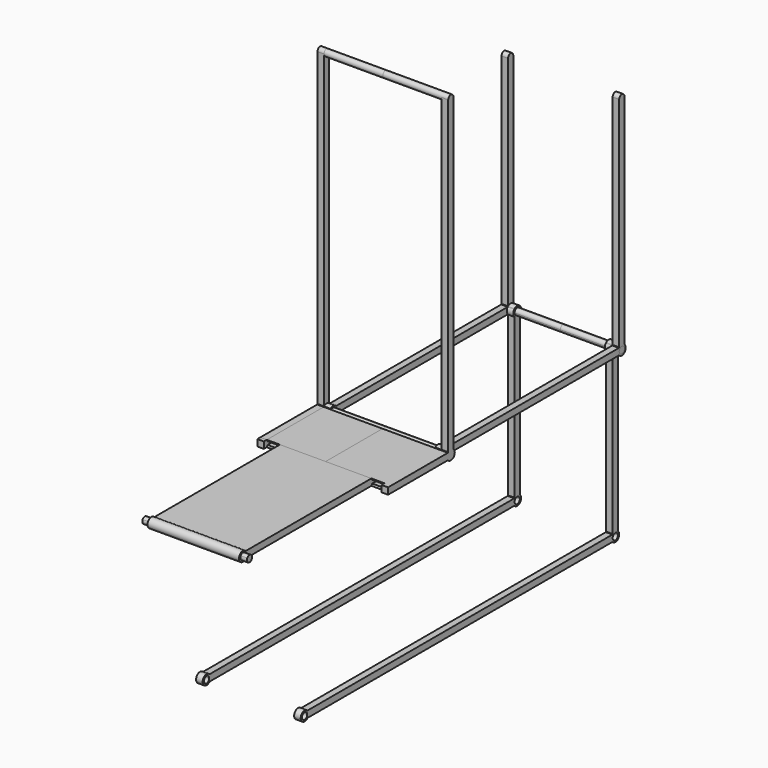
from build123d import *

# Parameters (mm, degrees)
F1_START      = 228.6
F1_DEPTH      = 25.4
F2_START      = -228.6
F2_DEPTH      = 25.4
F3_DEPTH      = 254
F3_DEPTH_BACK = 254
F4_START      = 203.2
F4_DEPTH      = 25.4
F5_START      = -203.2
F5_DEPTH      = 25.4
F6_START      = 177.8
F6_DEPTH      = 25.4
F7_DEPTH      = 228.6
F8_DEPTH      = 177.8
F9_DEPTH      = 203.2
F10_START     = -177.8
F10_DEPTH     = 25.4


with BuildPart() as f1:
    # F0 (on Right) → F1 (new body)
    with BuildSketch(Plane.YZ.offset(F1_START)):
        with BuildLine():
            Line((14.1990316571, -12.7), (0, -12.7))
            Line((0, -12.7), (-14.1990316571, -12.7))
            ThreePointArc((-14.1990316571, -12.7), (0, -19.05), (14.1990316571, -12.7))
        make_face()
        with BuildLine():
            ThreePointArc((-12.7, 1219.2), (0, 1206.5), (12.7, 1219.2))
            Line((12.7, 1219.2), (-12.7, 1219.2))
        make_face()
        with BuildLine():
            ThreePointArc((-12.7, 0), (-8.9802561211, 8.9802561211), (0, 12.7))
            Line((0, 12.7), (-12.7, 12.7))
            Line((-12.7, 12.7), (-12.7, 0))
        make_face()
        with BuildLine():
            ThreePointArc((0, 12.7), (8.9802561211, 8.9802561211), (12.7, 0))
            Line((12.7, 0), (12.7, 12.7))
            Line((12.7, 12.7), (0, 12.7))
        make_face()
        with BuildLine():
            Line((12.7, 12.7), (12.7, 0))
            ThreePointArc((12.7, 0), (8.9802561211, -8.9802561211), (0, -12.7))
            Line((0, -12.7), (14.1990316571, -12.7))
            ThreePointArc((14.1990316571, -12.7), (17.7959834382, -6.7974608102), (19.05, 0))
            ThreePointArc((19.05, 0), (17.7959834382, 6.7974608102), (14.1990316571, 12.7))
            Line((14.1990316571, 12.7), (12.7, 12.7))
        make_face()
        with BuildLine():
            Line((-12.7, 1219.2), (12.7, 1219.2))
            ThreePointArc((12.7, 1219.2), (0, 1231.9), (-12.7, 1219.2))
        make_face()
        with BuildLine():
            Line((-12.7, 12.7), (0, 12.7))
            Line((0, 12.7), (12.7, 12.7))
            Line((12.7, 12.7), (12.7, 14.1990316571))
            ThreePointArc((12.7, 14.1990316571), (0, 19.05), (-12.7, 14.1990316571))
            Line((-12.7, 14.1990316571), (-12.7, 12.7))
        make_face()
        with BuildLine():
            ThreePointArc((-12.7, 14.1990316571), (0, 19.05), (12.7, 14.1990316571))
            Line((12.7, 14.1990316571), (12.7, 1219.2))
            ThreePointArc((12.7, 1219.2), (0, 1206.5), (-12.7, 1219.2))
            Line((-12.7, 1219.2), (-12.7, 14.1990316571))
        make_face()
        with BuildLine():
            Line((-14.1990316571, -12.7), (0, -12.7))
            ThreePointArc((0, -12.7), (-8.9802561211, -8.9802561211), (-12.7, 0))
            Line((-12.7, 0), (-12.7, 12.7))
            Line((-12.7, 12.7), (-14.1990316571, 12.7))
            ThreePointArc((-14.1990316571, 12.7), (-16.390231571, 9.7089035966), (-17.9605122421, 6.35))
            ThreePointArc((-17.9605122421, 6.35), (-19.05, 0), (-17.9605122421, -6.35))
            ThreePointArc((-17.9605122421, -6.35), (-16.390231571, -9.7089035966), (-14.1990316571, -12.7))
        make_face()
        with BuildLine():
            Line((12.7, 14.1990316571), (12.7, 12.7))
            Line((12.7, 12.7), (14.1990316571, 12.7))
            ThreePointArc((14.1990316571, 12.7), (13.4703841816, 13.4703841816), (12.7, 14.1990316571))
        make_face()
        with BuildLine():
            Line((-14.1990316571, 12.7), (-12.7, 12.7))
            Line((-12.7, 12.7), (-12.7, 14.1990316571))
            ThreePointArc((-12.7, 14.1990316571), (-13.4703841816, 13.4703841816), (-14.1990316571, 12.7))
        make_face()
        with BuildLine():
            Line((-290.6009683429, -12.7), (-14.1990316571, -12.7))
            ThreePointArc((-14.1990316571, -12.7), (-16.390231571, -9.7089035966), (-17.9605122421, -6.35))
            Line((-17.9605122421, -6.35), (-286.8394877579, -6.35))
            ThreePointArc((-286.8394877579, -6.35), (-288.409768429, -9.7089035966), (-290.6009683429, -12.7))
        make_face()
        with BuildLine():
            Line((-304.8, -12.7), (-290.6009683429, -12.7))
            ThreePointArc((-290.6009683429, -12.7), (-288.409768429, -9.7089035966), (-286.8394877579, -6.35))
            Line((-286.8394877579, -6.35), (-293.8014773719, -6.35))
            ThreePointArc((-293.8014773719, -6.35), (-298.45, -10.9985226281), (-304.8, -12.7))
        make_face()
        with BuildLine():
            ThreePointArc((-286.8394877579, 6.35), (-288.409768429, 9.7089035966), (-290.6009683429, 12.7))
            Line((-290.6009683429, 12.7), (-304.8, 12.7))
            ThreePointArc((-304.8, 12.7), (-298.45, 10.9985226281), (-293.8014773719, 6.35))
            Line((-293.8014773719, 6.35), (-286.8394877579, 6.35))
        make_face()
        with BuildLine():
            ThreePointArc((-17.9605122421, 6.35), (-16.390231571, 9.7089035966), (-14.1990316571, 12.7))
            Line((-14.1990316571, 12.7), (-290.6009683429, 12.7))
            ThreePointArc((-290.6009683429, 12.7), (-288.409768429, 9.7089035966), (-286.8394877579, 6.35))
            Line((-286.8394877579, 6.35), (-17.9605122421, 6.35))
        make_face()
        with BuildLine():
            ThreePointArc((-293.8014773719, 6.35), (-298.45, 10.9985226281), (-304.8, 12.7))
            Line((-304.8, 12.7), (-304.8, 6.35))
            Line((-304.8, 6.35), (-293.8014773719, 6.35))
        make_face()
        with BuildLine():
            Line((-304.8, -6.35), (-304.8, -12.7))
            ThreePointArc((-304.8, -12.7), (-298.45, -10.9985226281), (-293.8014773719, -6.35))
            Line((-293.8014773719, -6.35), (-304.8, -6.35))
        make_face()
        with BuildLine():
            Line((-304.8, 6.35), (-304.8, -6.35))
            Line((-304.8, -6.35), (-293.8014773719, -6.35))
            ThreePointArc((-293.8014773719, -6.35), (-292.5327420061, -3.2870018728), (-292.1, 0))
            ThreePointArc((-292.1, 0), (-292.5327420061, 3.2870018728), (-293.8014773719, 6.35))
            Line((-293.8014773719, 6.35), (-304.8, 6.35))
        make_face()
        with BuildLine():
            Line((-286.8394877579, -6.35), (-17.9605122421, -6.35))
            ThreePointArc((-17.9605122421, -6.35), (-19.05, 0), (-17.9605122421, 6.35))
            Line((-17.9605122421, 6.35), (-286.8394877579, 6.35))
            ThreePointArc((-286.8394877579, 6.35), (-286.0243474386, 3.2213926947), (-285.75, 0))
            ThreePointArc((-285.75, 0), (-286.0243474386, -3.2213926947), (-286.8394877579, -6.35))
        make_face()
        with BuildLine():
            Line((-293.8014773719, -6.35), (-286.8394877579, -6.35))
            ThreePointArc((-286.8394877579, -6.35), (-286.0243474386, -3.2213926947), (-285.75, 0))
            ThreePointArc((-285.75, 0), (-286.0243474386, 3.2213926947), (-286.8394877579, 6.35))
            Line((-286.8394877579, 6.35), (-293.8014773719, 6.35))
            ThreePointArc((-293.8014773719, 6.35), (-292.5327420061, 3.2870018728), (-292.1, 0))
            ThreePointArc((-292.1, 0), (-292.5327420061, -3.2870018728), (-293.8014773719, -6.35))
        make_face()
    extrude(amount=F1_DEPTH)



with BuildPart() as f2:
    # F0 (on Right) → F2 (new body)
    with BuildSketch(Plane.YZ.offset(F2_START)):
        with BuildLine():
            ThreePointArc((-12.7, 1219.2), (0, 1206.5), (12.7, 1219.2))
            Line((12.7, 1219.2), (-12.7, 1219.2))
        make_face()
        with BuildLine():
            Line((-12.7, 12.7), (0, 12.7))
            Line((0, 12.7), (12.7, 12.7))
            Line((12.7, 12.7), (12.7, 14.1990316571))
            ThreePointArc((12.7, 14.1990316571), (0, 19.05), (-12.7, 14.1990316571))
            Line((-12.7, 14.1990316571), (-12.7, 12.7))
        make_face()
        with BuildLine():
            Line((-14.1990316571, -12.7), (0, -12.7))
            ThreePointArc((0, -12.7), (-8.9802561211, -8.9802561211), (-12.7, 0))
            Line((-12.7, 0), (-12.7, 12.7))
            Line((-12.7, 12.7), (-14.1990316571, 12.7))
            ThreePointArc((-14.1990316571, 12.7), (-16.390231571, 9.7089035966), (-17.9605122421, 6.35))
            ThreePointArc((-17.9605122421, 6.35), (-19.05, 0), (-17.9605122421, -6.35))
            ThreePointArc((-17.9605122421, -6.35), (-16.390231571, -9.7089035966), (-14.1990316571, -12.7))
        make_face()
        with BuildLine():
            ThreePointArc((0, 12.7), (8.9802561211, 8.9802561211), (12.7, 0))
            Line((12.7, 0), (12.7, 12.7))
            Line((12.7, 12.7), (0, 12.7))
        make_face()
        with BuildLine():
            Line((-12.7, 1219.2), (12.7, 1219.2))
            ThreePointArc((12.7, 1219.2), (0, 1231.9), (-12.7, 1219.2))
        make_face()
        with BuildLine():
            Line((12.7, 12.7), (12.7, 0))
            ThreePointArc((12.7, 0), (8.9802561211, -8.9802561211), (0, -12.7))
            Line((0, -12.7), (14.1990316571, -12.7))
            ThreePointArc((14.1990316571, -12.7), (17.7959834382, -6.7974608102), (19.05, 0))
            ThreePointArc((19.05, 0), (17.7959834382, 6.7974608102), (14.1990316571, 12.7))
            Line((14.1990316571, 12.7), (12.7, 12.7))
        make_face()
        with BuildLine():
            ThreePointArc((-12.7, 14.1990316571), (0, 19.05), (12.7, 14.1990316571))
            Line((12.7, 14.1990316571), (12.7, 1219.2))
            ThreePointArc((12.7, 1219.2), (0, 1206.5), (-12.7, 1219.2))
            Line((-12.7, 1219.2), (-12.7, 14.1990316571))
        make_face()
        with BuildLine():
            Line((12.7, 14.1990316571), (12.7, 12.7))
            Line((12.7, 12.7), (14.1990316571, 12.7))
            ThreePointArc((14.1990316571, 12.7), (13.4703841816, 13.4703841816), (12.7, 14.1990316571))
        make_face()
        with BuildLine():
            ThreePointArc((-12.7, 0), (-8.9802561211, 8.9802561211), (0, 12.7))
            Line((0, 12.7), (-12.7, 12.7))
            Line((-12.7, 12.7), (-12.7, 0))
        make_face()
        with BuildLine():
            Line((14.1990316571, -12.7), (0, -12.7))
            Line((0, -12.7), (-14.1990316571, -12.7))
            ThreePointArc((-14.1990316571, -12.7), (0, -19.05), (14.1990316571, -12.7))
        make_face()
        with BuildLine():
            Line((-14.1990316571, 12.7), (-12.7, 12.7))
            Line((-12.7, 12.7), (-12.7, 14.1990316571))
            ThreePointArc((-12.7, 14.1990316571), (-13.4703841816, 13.4703841816), (-14.1990316571, 12.7))
        make_face()
        with BuildLine():
            Line((-290.6009683429, -12.7), (-14.1990316571, -12.7))
            ThreePointArc((-14.1990316571, -12.7), (-16.390231571, -9.7089035966), (-17.9605122421, -6.35))
            Line((-17.9605122421, -6.35), (-286.8394877579, -6.35))
            ThreePointArc((-286.8394877579, -6.35), (-288.409768429, -9.7089035966), (-290.6009683429, -12.7))
        make_face()
        with BuildLine():
            Line((-304.8, -12.7), (-290.6009683429, -12.7))
            ThreePointArc((-290.6009683429, -12.7), (-288.409768429, -9.7089035966), (-286.8394877579, -6.35))
            Line((-286.8394877579, -6.35), (-293.8014773719, -6.35))
            ThreePointArc((-293.8014773719, -6.35), (-298.45, -10.9985226281), (-304.8, -12.7))
        make_face()
        with BuildLine():
            ThreePointArc((-17.9605122421, 6.35), (-16.390231571, 9.7089035966), (-14.1990316571, 12.7))
            Line((-14.1990316571, 12.7), (-290.6009683429, 12.7))
            ThreePointArc((-290.6009683429, 12.7), (-288.409768429, 9.7089035966), (-286.8394877579, 6.35))
            Line((-286.8394877579, 6.35), (-17.9605122421, 6.35))
        make_face()
        with BuildLine():
            ThreePointArc((-286.8394877579, 6.35), (-288.409768429, 9.7089035966), (-290.6009683429, 12.7))
            Line((-290.6009683429, 12.7), (-304.8, 12.7))
            ThreePointArc((-304.8, 12.7), (-298.45, 10.9985226281), (-293.8014773719, 6.35))
            Line((-293.8014773719, 6.35), (-286.8394877579, 6.35))
        make_face()
        with BuildLine():
            ThreePointArc((-293.8014773719, 6.35), (-298.45, 10.9985226281), (-304.8, 12.7))
            Line((-304.8, 12.7), (-304.8, 6.35))
            Line((-304.8, 6.35), (-293.8014773719, 6.35))
        make_face()
        with BuildLine():
            Line((-304.8, 6.35), (-304.8, -6.35))
            Line((-304.8, -6.35), (-293.8014773719, -6.35))
            ThreePointArc((-293.8014773719, -6.35), (-292.5327420061, -3.2870018728), (-292.1, 0))
            ThreePointArc((-292.1, 0), (-292.5327420061, 3.2870018728), (-293.8014773719, 6.35))
            Line((-293.8014773719, 6.35), (-304.8, 6.35))
        make_face()
        with BuildLine():
            Line((-304.8, -6.35), (-304.8, -12.7))
            ThreePointArc((-304.8, -12.7), (-298.45, -10.9985226281), (-293.8014773719, -6.35))
            Line((-293.8014773719, -6.35), (-304.8, -6.35))
        make_face()
        with BuildLine():
            Line((-286.8394877579, -6.35), (-17.9605122421, -6.35))
            ThreePointArc((-17.9605122421, -6.35), (-19.05, 0), (-17.9605122421, 6.35))
            Line((-17.9605122421, 6.35), (-286.8394877579, 6.35))
            ThreePointArc((-286.8394877579, 6.35), (-286.0243474386, 3.2213926947), (-285.75, 0))
            ThreePointArc((-285.75, 0), (-286.0243474386, -3.2213926947), (-286.8394877579, -6.35))
        make_face()
        with BuildLine():
            Line((-293.8014773719, -6.35), (-286.8394877579, -6.35))
            ThreePointArc((-286.8394877579, -6.35), (-286.0243474386, -3.2213926947), (-285.75, 0))
            ThreePointArc((-285.75, 0), (-286.0243474386, 3.2213926947), (-286.8394877579, 6.35))
            Line((-286.8394877579, 6.35), (-293.8014773719, 6.35))
            ThreePointArc((-293.8014773719, 6.35), (-292.5327420061, 3.2870018728), (-292.1, 0))
            ThreePointArc((-292.1, 0), (-292.5327420061, -3.2870018728), (-293.8014773719, -6.35))
        make_face()
    extrude(amount=-F2_DEPTH)


with BuildPart() as f1_1:
    add(f1.part)

    add(f2.part)  # F3 merges F2
    # F0 (on Right) → F3 (join, two sides)
    with BuildSketch(Plane.YZ) as f3_sk:
        with BuildLine():
            ThreePointArc((0, -12.7), (8.9802561211, -8.9802561211), (12.7, 0))
            ThreePointArc((12.7, 0), (8.9802561211, 8.9802561211), (0, 12.7))
            ThreePointArc((0, 12.7), (-8.9802561211, 8.9802561211), (-12.7, 0))
            ThreePointArc((-12.7, 0), (-8.9802561211, -8.9802561211), (0, -12.7))
        make_face()
        with BuildLine():
            ThreePointArc((-12.7, 1219.2), (0, 1206.5), (12.7, 1219.2))
            Line((12.7, 1219.2), (-12.7, 1219.2))
        make_face()
        with BuildLine():
            Line((-12.7, 1219.2), (12.7, 1219.2))
            ThreePointArc((12.7, 1219.2), (0, 1231.9), (-12.7, 1219.2))
        make_face()
        with BuildLine():
            ThreePointArc((-17.9605122421, 6.35), (-16.390231571, 9.7089035966), (-14.1990316571, 12.7))
            Line((-14.1990316571, 12.7), (-290.6009683429, 12.7))
            ThreePointArc((-290.6009683429, 12.7), (-288.409768429, 9.7089035966), (-286.8394877579, 6.35))
            Line((-286.8394877579, 6.35), (-17.9605122421, 6.35))
        make_face()
        with BuildLine():
            Line((-290.6009683429, -12.7), (-14.1990316571, -12.7))
            ThreePointArc((-14.1990316571, -12.7), (-16.390231571, -9.7089035966), (-17.9605122421, -6.35))
            Line((-17.9605122421, -6.35), (-286.8394877579, -6.35))
            ThreePointArc((-286.8394877579, -6.35), (-288.409768429, -9.7089035966), (-290.6009683429, -12.7))
        make_face()
    extrude(amount=F3_DEPTH)
    extrude(f3_sk.sketch, amount=-F3_DEPTH_BACK)


with BuildPart() as f4:
    # F0 (on Right) → F4 (new body)
    with BuildSketch(Plane.YZ.offset(F4_START)):
        with BuildLine():
            ThreePointArc((0, 12.7), (8.9802561211, 8.9802561211), (12.7, 0))
            Line((12.7, 0), (12.7, 12.7))
            Line((12.7, 12.7), (0, 12.7))
        make_face()
        with BuildLine():
            Line((12.7, 14.1990316571), (12.7, 12.7))
            Line((12.7, 12.7), (14.1990316571, 12.7))
            ThreePointArc((14.1990316571, 12.7), (13.4703841816, 13.4703841816), (12.7, 14.1990316571))
        make_face()
        with BuildLine():
            Line((12.7, 12.7), (12.7, 0))
            ThreePointArc((12.7, 0), (8.9802561211, -8.9802561211), (0, -12.7))
            Line((0, -12.7), (14.1990316571, -12.7))
            ThreePointArc((14.1990316571, -12.7), (17.7959834382, -6.7974608102), (19.05, 0))
            ThreePointArc((19.05, 0), (17.7959834382, 6.7974608102), (14.1990316571, 12.7))
            Line((14.1990316571, 12.7), (12.7, 12.7))
        make_face()
        with BuildLine():
            ThreePointArc((19.05, 0), (17.7959834382, -6.7974608102), (14.1990316571, -12.7))
            Line((14.1990316571, -12.7), (847.9023683429, -12.7))
            ThreePointArc((847.9023683429, -12.7), (843.0514, 0), (847.9023683429, 12.7))
            Line((847.9023683429, 12.7), (14.1990316571, 12.7))
            ThreePointArc((14.1990316571, 12.7), (17.7959834382, 6.7974608102), (19.05, 0))
        make_face()
        with BuildLine():
            Line((862.1014, 12.7), (849.4014, 12.7))
            Line((849.4014, 12.7), (849.4014, 0))
            ThreePointArc((849.4014, 0), (853.1211438789, 8.9802561211), (862.1014, 12.7))
        make_face()
        with BuildLine():
            Line((849.4014, 0), (849.4014, -12.7))
            Line((849.4014, -12.7), (862.1014, -12.7))
            ThreePointArc((862.1014, -12.7), (853.1211438789, -8.9802561211), (849.4014, 0))
        make_face()
        with BuildLine():
            Line((14.1990316571, -12.7), (0, -12.7))
            Line((0, -12.7), (-14.1990316571, -12.7))
            ThreePointArc((-14.1990316571, -12.7), (0, -19.05), (14.1990316571, -12.7))
        make_face()
        with BuildLine():
            Line((-12.7, 12.7), (0, 12.7))
            Line((0, 12.7), (12.7, 12.7))
            Line((12.7, 12.7), (12.7, 14.1990316571))
            ThreePointArc((12.7, 14.1990316571), (0, 19.05), (-12.7, 14.1990316571))
            Line((-12.7, 14.1990316571), (-12.7, 12.7))
        make_face()
        with BuildLine():
            ThreePointArc((847.9023683429, 12.7), (843.0514, 0), (847.9023683429, -12.7))
            Line((847.9023683429, -12.7), (849.4014, -12.7))
            Line((849.4014, -12.7), (849.4014, 0))
            Line((849.4014, 0), (849.4014, 12.7))
            Line((849.4014, 12.7), (847.9023683429, 12.7))
        make_face()
        with BuildLine():
            Line((849.4014, 14.1990316571), (849.4014, 12.7))
            Line((849.4014, 12.7), (862.1014, 12.7))
            ThreePointArc((862.1014, 12.7), (871.0816561211, 8.9802561211), (874.8014, 0))
            Line((874.8014, 0), (874.8014, 14.1990316571))
            ThreePointArc((874.8014, 14.1990316571), (862.1014, 19.05), (849.4014, 14.1990316571))
        make_face()
        with BuildLine():
            Line((874.8014, 0), (874.8014, -14.1990316571))
            ThreePointArc((874.8014, -14.1990316571), (879.4915912008, -7.7771299333), (881.1514, 0))
            ThreePointArc((881.1514, 0), (879.4915912008, 7.7771299333), (874.8014, 14.1990316571))
            Line((874.8014, 14.1990316571), (874.8014, 0))
        make_face()
        with BuildLine():
            Line((862.1014, -12.7), (849.4014, -12.7))
            Line((849.4014, -12.7), (849.4014, -14.1990316571))
            ThreePointArc((849.4014, -14.1990316571), (862.1014, -19.05), (874.8014, -14.1990316571))
            Line((874.8014, -14.1990316571), (874.8014, 0))
            ThreePointArc((874.8014, 0), (871.0816561211, -8.9802561211), (862.1014, -12.7))
        make_face()
        with BuildLine():
            ThreePointArc((849.4014, 14.1990316571), (848.6310158184, 13.4703841816), (847.9023683429, 12.7))
            Line((847.9023683429, 12.7), (849.4014, 12.7))
            Line((849.4014, 12.7), (849.4014, 14.1990316571))
        make_face()
        with BuildLine():
            Line((849.4014, -12.7), (847.9023683429, -12.7))
            ThreePointArc((847.9023683429, -12.7), (848.6310158184, -13.4703841816), (849.4014, -14.1990316571))
            Line((849.4014, -14.1990316571), (849.4014, -12.7))
        make_face()
        with BuildLine():
            Line((849.4014, 862.1014), (849.4014, 14.1990316571))
            ThreePointArc((849.4014, 14.1990316571), (862.1014, 19.05), (874.8014, 14.1990316571))
            Line((874.8014, 14.1990316571), (874.8014, 862.1014))
            ThreePointArc((874.8014, 862.1014), (862.1014, 849.4014), (849.4014, 862.1014))
        make_face()
        with BuildLine():
            Line((874.8014, 862.1014), (849.4014, 862.1014))
            ThreePointArc((849.4014, 862.1014), (862.1014, 849.4014), (874.8014, 862.1014))
        make_face()
        with BuildLine():
            ThreePointArc((874.8014, 862.1014), (862.1014, 874.8014), (849.4014, 862.1014))
            Line((849.4014, 862.1014), (874.8014, 862.1014))
        make_face()
    extrude(amount=F4_DEPTH)


with BuildPart() as f5:
    # F0 (on Right) → F5 (new body)
    with BuildSketch(Plane.YZ.offset(F5_START)):
        with BuildLine():
            ThreePointArc((847.9023683429, 12.7), (843.0514, 0), (847.9023683429, -12.7))
            Line((847.9023683429, -12.7), (849.4014, -12.7))
            Line((849.4014, -12.7), (849.4014, 0))
            Line((849.4014, 0), (849.4014, 12.7))
            Line((849.4014, 12.7), (847.9023683429, 12.7))
        make_face()
        with BuildLine():
            ThreePointArc((849.4014, 14.1990316571), (848.6310158184, 13.4703841816), (847.9023683429, 12.7))
            Line((847.9023683429, 12.7), (849.4014, 12.7))
            Line((849.4014, 12.7), (849.4014, 14.1990316571))
        make_face()
        with BuildLine():
            Line((849.4014, -12.7), (847.9023683429, -12.7))
            ThreePointArc((847.9023683429, -12.7), (848.6310158184, -13.4703841816), (849.4014, -14.1990316571))
            Line((849.4014, -14.1990316571), (849.4014, -12.7))
        make_face()
        with BuildLine():
            Line((12.7, 14.1990316571), (12.7, 12.7))
            Line((12.7, 12.7), (14.1990316571, 12.7))
            ThreePointArc((14.1990316571, 12.7), (13.4703841816, 13.4703841816), (12.7, 14.1990316571))
        make_face()
        with BuildLine():
            Line((874.8014, 0), (874.8014, -14.1990316571))
            ThreePointArc((874.8014, -14.1990316571), (879.4915912008, -7.7771299333), (881.1514, 0))
            ThreePointArc((881.1514, 0), (879.4915912008, 7.7771299333), (874.8014, 14.1990316571))
            Line((874.8014, 14.1990316571), (874.8014, 0))
        make_face()
        with BuildLine():
            Line((-12.7, 12.7), (0, 12.7))
            Line((0, 12.7), (12.7, 12.7))
            Line((12.7, 12.7), (12.7, 14.1990316571))
            ThreePointArc((12.7, 14.1990316571), (0, 19.05), (-12.7, 14.1990316571))
            Line((-12.7, 14.1990316571), (-12.7, 12.7))
        make_face()
        with BuildLine():
            Line((862.1014, 12.7), (849.4014, 12.7))
            Line((849.4014, 12.7), (849.4014, 0))
            ThreePointArc((849.4014, 0), (853.1211438789, 8.9802561211), (862.1014, 12.7))
        make_face()
        with BuildLine():
            Line((12.7, 12.7), (12.7, 0))
            ThreePointArc((12.7, 0), (8.9802561211, -8.9802561211), (0, -12.7))
            Line((0, -12.7), (14.1990316571, -12.7))
            ThreePointArc((14.1990316571, -12.7), (17.7959834382, -6.7974608102), (19.05, 0))
            ThreePointArc((19.05, 0), (17.7959834382, 6.7974608102), (14.1990316571, 12.7))
            Line((14.1990316571, 12.7), (12.7, 12.7))
        make_face()
        with BuildLine():
            Line((849.4014, 14.1990316571), (849.4014, 12.7))
            Line((849.4014, 12.7), (862.1014, 12.7))
            ThreePointArc((862.1014, 12.7), (871.0816561211, 8.9802561211), (874.8014, 0))
            Line((874.8014, 0), (874.8014, 14.1990316571))
            ThreePointArc((874.8014, 14.1990316571), (862.1014, 19.05), (849.4014, 14.1990316571))
        make_face()
        with BuildLine():
            Line((862.1014, -12.7), (849.4014, -12.7))
            Line((849.4014, -12.7), (849.4014, -14.1990316571))
            ThreePointArc((849.4014, -14.1990316571), (862.1014, -19.05), (874.8014, -14.1990316571))
            Line((874.8014, -14.1990316571), (874.8014, 0))
            ThreePointArc((874.8014, 0), (871.0816561211, -8.9802561211), (862.1014, -12.7))
        make_face()
        with BuildLine():
            ThreePointArc((0, 12.7), (8.9802561211, 8.9802561211), (12.7, 0))
            Line((12.7, 0), (12.7, 12.7))
            Line((12.7, 12.7), (0, 12.7))
        make_face()
        with BuildLine():
            Line((849.4014, 0), (849.4014, -12.7))
            Line((849.4014, -12.7), (862.1014, -12.7))
            ThreePointArc((862.1014, -12.7), (853.1211438789, -8.9802561211), (849.4014, 0))
        make_face()
        with BuildLine():
            ThreePointArc((19.05, 0), (17.7959834382, -6.7974608102), (14.1990316571, -12.7))
            Line((14.1990316571, -12.7), (847.9023683429, -12.7))
            ThreePointArc((847.9023683429, -12.7), (843.0514, 0), (847.9023683429, 12.7))
            Line((847.9023683429, 12.7), (14.1990316571, 12.7))
            ThreePointArc((14.1990316571, 12.7), (17.7959834382, 6.7974608102), (19.05, 0))
        make_face()
        with BuildLine():
            Line((14.1990316571, -12.7), (0, -12.7))
            Line((0, -12.7), (-14.1990316571, -12.7))
            ThreePointArc((-14.1990316571, -12.7), (0, -19.05), (14.1990316571, -12.7))
        make_face()
        with BuildLine():
            Line((849.4014, 862.1014), (849.4014, 14.1990316571))
            ThreePointArc((849.4014, 14.1990316571), (862.1014, 19.05), (874.8014, 14.1990316571))
            Line((874.8014, 14.1990316571), (874.8014, 862.1014))
            ThreePointArc((874.8014, 862.1014), (862.1014, 849.4014), (849.4014, 862.1014))
        make_face()
        with BuildLine():
            Line((874.8014, 862.1014), (849.4014, 862.1014))
            ThreePointArc((849.4014, 862.1014), (862.1014, 849.4014), (874.8014, 862.1014))
        make_face()
        with BuildLine():
            ThreePointArc((874.8014, 862.1014), (862.1014, 874.8014), (849.4014, 862.1014))
            Line((849.4014, 862.1014), (874.8014, 862.1014))
        make_face()
    extrude(amount=-F5_DEPTH)


with BuildPart() as f6:
    # F0 (on Right) → F6 (new body)
    with BuildSketch(Plane.YZ.offset(F6_START)):
        with BuildLine():
            Line((862.1014, 12.7), (849.4014, 12.7))
            Line((849.4014, 12.7), (849.4014, 0))
            ThreePointArc((849.4014, 0), (853.1211438789, 8.9802561211), (862.1014, 12.7))
        make_face()
        with BuildLine():
            Line((862.1014, -633.8824), (849.4014, -633.8824))
            Line((849.4014, -633.8824), (849.4014, -646.5824))
            ThreePointArc((849.4014, -646.5824), (853.1211438789, -637.6021438789), (862.1014, -633.8824))
        make_face()
        with BuildLine():
            ThreePointArc((874.8014, -14.1990316571), (862.1014, -19.05), (849.4014, -14.1990316571))
            Line((849.4014, -14.1990316571), (849.4014, -632.3833683429))
            ThreePointArc((849.4014, -632.3833683429), (862.1014, -627.5324), (874.8014, -632.3833683429))
            Line((874.8014, -632.3833683429), (874.8014, -14.1990316571))
        make_face()
        with BuildLine():
            Line((874.8014, 0), (874.8014, -14.1990316571))
            ThreePointArc((874.8014, -14.1990316571), (879.4915912008, -7.7771299333), (881.1514, 0))
            ThreePointArc((881.1514, 0), (879.4915912008, 7.7771299333), (874.8014, 14.1990316571))
            Line((874.8014, 14.1990316571), (874.8014, 0))
        make_face()
        with BuildLine():
            Line((849.4014, -12.7), (847.9023683429, -12.7))
            ThreePointArc((847.9023683429, -12.7), (848.6310158184, -13.4703841816), (849.4014, -14.1990316571))
            Line((849.4014, -14.1990316571), (849.4014, -12.7))
        make_face()
        with BuildLine():
            Line((849.4014, -646.5824), (849.4014, -633.8824))
            Line((849.4014, -633.8824), (847.9023683429, -633.8824))
            ThreePointArc((847.9023683429, -633.8824), (843.0514, -646.5824), (847.9023683429, -659.2824))
            Line((847.9023683429, -659.2824), (862.1014, -659.2824))
            ThreePointArc((862.1014, -659.2824), (853.1211438789, -655.5626561211), (849.4014, -646.5824))
        make_face()
        with BuildLine():
            Line((862.1014, -12.7), (849.4014, -12.7))
            Line((849.4014, -12.7), (849.4014, -14.1990316571))
            ThreePointArc((849.4014, -14.1990316571), (862.1014, -19.05), (874.8014, -14.1990316571))
            Line((874.8014, -14.1990316571), (874.8014, 0))
            ThreePointArc((874.8014, 0), (871.0816561211, -8.9802561211), (862.1014, -12.7))
        make_face()
        with BuildLine():
            ThreePointArc((849.4014, 14.1990316571), (848.6310158184, 13.4703841816), (847.9023683429, 12.7))
            Line((847.9023683429, 12.7), (849.4014, 12.7))
            Line((849.4014, 12.7), (849.4014, 14.1990316571))
        make_face()
        with BuildLine():
            ThreePointArc((874.8014, -632.3833683429), (862.1014, -627.5324), (849.4014, -632.3833683429))
            Line((849.4014, -632.3833683429), (849.4014, -633.8824))
            Line((849.4014, -633.8824), (862.1014, -633.8824))
            ThreePointArc((862.1014, -633.8824), (871.0816561211, -637.6021438789), (874.8014, -646.5824))
            Line((874.8014, -646.5824), (874.8014, -632.3833683429))
        make_face()
        with BuildLine():
            ThreePointArc((847.9023683429, 12.7), (843.0514, 0), (847.9023683429, -12.7))
            Line((847.9023683429, -12.7), (849.4014, -12.7))
            Line((849.4014, -12.7), (849.4014, 0))
            Line((849.4014, 0), (849.4014, 12.7))
            Line((849.4014, 12.7), (847.9023683429, 12.7))
        make_face()
        with BuildLine():
            Line((849.4014, 0), (849.4014, -12.7))
            Line((849.4014, -12.7), (862.1014, -12.7))
            ThreePointArc((862.1014, -12.7), (853.1211438789, -8.9802561211), (849.4014, 0))
        make_face()
        with BuildLine():
            Line((849.4014, 14.1990316571), (849.4014, 12.7))
            Line((849.4014, 12.7), (862.1014, 12.7))
            ThreePointArc((862.1014, 12.7), (871.0816561211, 8.9802561211), (874.8014, 0))
            Line((874.8014, 0), (874.8014, 14.1990316571))
            ThreePointArc((874.8014, 14.1990316571), (862.1014, 19.05), (849.4014, 14.1990316571))
        make_face()
        with BuildLine():
            Line((849.4014, -633.8824), (849.4014, -632.3833683429))
            ThreePointArc((849.4014, -632.3833683429), (848.6310158184, -633.1120158184), (847.9023683429, -633.8824))
            Line((847.9023683429, -633.8824), (849.4014, -633.8824))
        make_face()
        with BuildLine():
            ThreePointArc((881.1514, -646.5824), (879.4915912008, -638.8052700667), (874.8014, -632.3833683429))
            Line((874.8014, -632.3833683429), (874.8014, -646.5824))
            ThreePointArc((874.8014, -646.5824), (871.0816561211, -655.5626561211), (862.1014, -659.2824))
            Line((862.1014, -659.2824), (847.9023683429, -659.2824))
            ThreePointArc((847.9023683429, -659.2824), (868.8988608102, -664.3783834382), (881.1514, -646.5824))
        make_face()
        with BuildLine():
            ThreePointArc((847.9023683429, -659.2824), (843.0514, -646.5824), (847.9023683429, -633.8824))
            Line((847.9023683429, -633.8824), (-632.3833683429, -633.8824))
            ThreePointArc((-632.3833683429, -633.8824), (-628.7864165618, -639.7849391898), (-627.5324, -646.5824))
            ThreePointArc((-627.5324, -646.5824), (-628.7864165618, -653.3798608102), (-632.3833683429, -659.2824))
            Line((-632.3833683429, -659.2824), (847.9023683429, -659.2824))
        make_face()
        with BuildLine():
            ThreePointArc((-627.5324, -646.5824), (-628.7864165618, -639.7849391898), (-632.3833683429, -633.8824))
            Line((-632.3833683429, -633.8824), (-646.5824, -633.8824))
            ThreePointArc((-646.5824, -633.8824), (-637.6021438789, -637.6021438789), (-633.8824, -646.5824))
            ThreePointArc((-633.8824, -646.5824), (-637.6021438789, -655.5626561211), (-646.5824, -659.2824))
            Line((-646.5824, -659.2824), (-632.3833683429, -659.2824))
            ThreePointArc((-632.3833683429, -659.2824), (-628.7864165618, -653.3798608102), (-627.5324, -646.5824))
        make_face()
        with BuildLine():
            Line((-646.5824, -633.8824), (-632.3833683429, -633.8824))
            ThreePointArc((-632.3833683429, -633.8824), (-665.6324, -646.5824), (-632.3833683429, -659.2824))
            Line((-632.3833683429, -659.2824), (-646.5824, -659.2824))
            ThreePointArc((-646.5824, -659.2824), (-659.2824, -646.5824), (-646.5824, -633.8824))
        make_face()
    extrude(amount=F6_DEPTH)


with BuildPart() as f7:
    # F0 (on Right) → F7 (new body, symmetric)
    with BuildSketch(Plane.YZ):
        with BuildLine():
            ThreePointArc((849.4014, 0), (853.1211438789, -8.9802561211), (862.1014, -12.7))
            ThreePointArc((862.1014, -12.7), (871.0816561211, -8.9802561211), (874.8014, 0))
            ThreePointArc((874.8014, 0), (871.0816561211, 8.9802561211), (862.1014, 12.7))
            ThreePointArc((862.1014, 12.7), (853.1211438789, 8.9802561211), (849.4014, 0))
        make_face()
    extrude(amount=F7_DEPTH, both=True)


with BuildPart() as f8:
    # F0 (on Right) → F8 (new body, symmetric)
    with BuildSketch(Plane.YZ):
        with BuildLine():
            ThreePointArc((-293.8014773719, 6.35), (-298.45, 10.9985226281), (-304.8, 12.7))
            Line((-304.8, 12.7), (-304.8, 6.35))
            Line((-304.8, 6.35), (-293.8014773719, 6.35))
        make_face()
        with BuildLine():
            Line((-914.4, 12.7), (-900.2009683429, 12.7))
            ThreePointArc((-900.2009683429, 12.7), (-918.090231571, 18.6891597177), (-932.3605122421, 6.35))
            Line((-932.3605122421, 6.35), (-925.3985226281, 6.35))
            ThreePointArc((-925.3985226281, 6.35), (-920.75, 10.9985226281), (-914.4, 12.7))
        make_face()
        with BuildLine():
            ThreePointArc((-315.7985226281, -6.35), (-311.15, -10.9985226281), (-304.8, -12.7))
            Line((-304.8, -12.7), (-304.8, -6.35))
            Line((-304.8, -6.35), (-315.7985226281, -6.35))
        make_face()
        with BuildLine():
            Line((-900.2009683429, -12.7), (-318.9990316571, -12.7))
            ThreePointArc((-318.9990316571, -12.7), (-321.190231571, -9.7089035966), (-322.7605122421, -6.35))
            Line((-322.7605122421, -6.35), (-896.4394877579, -6.35))
            ThreePointArc((-896.4394877579, -6.35), (-898.009768429, -9.7089035966), (-900.2009683429, -12.7))
        make_face()
        with BuildLine():
            Line((-304.8, 6.35), (-304.8, -6.35))
            Line((-304.8, -6.35), (-293.8014773719, -6.35))
            ThreePointArc((-293.8014773719, -6.35), (-292.5327420061, -3.2870018728), (-292.1, 0))
            ThreePointArc((-292.1, 0), (-292.5327420061, 3.2870018728), (-293.8014773719, 6.35))
            Line((-293.8014773719, 6.35), (-304.8, 6.35))
        make_face()
        with BuildLine():
            Line((-315.7985226281, -6.35), (-304.8, -6.35))
            Line((-304.8, -6.35), (-304.8, 6.35))
            Line((-304.8, 6.35), (-315.7985226281, 6.35))
            ThreePointArc((-315.7985226281, 6.35), (-317.5, 0), (-315.7985226281, -6.35))
        make_face()
        with BuildLine():
            ThreePointArc((-322.7605122421, 6.35), (-321.190231571, 9.7089035966), (-318.9990316571, 12.7))
            Line((-318.9990316571, 12.7), (-900.2009683429, 12.7))
            ThreePointArc((-900.2009683429, 12.7), (-898.009768429, 9.7089035966), (-896.4394877579, 6.35))
            Line((-896.4394877579, 6.35), (-322.7605122421, 6.35))
        make_face()
        with BuildLine():
            ThreePointArc((-286.8394877579, 6.35), (-288.409768429, 9.7089035966), (-290.6009683429, 12.7))
            Line((-290.6009683429, 12.7), (-304.8, 12.7))
            ThreePointArc((-304.8, 12.7), (-298.45, 10.9985226281), (-293.8014773719, 6.35))
            Line((-293.8014773719, 6.35), (-286.8394877579, 6.35))
        make_face()
        with BuildLine():
            Line((-903.4014773719, -6.35), (-896.4394877579, -6.35))
            ThreePointArc((-896.4394877579, -6.35), (-895.6243474386, -3.2213926947), (-895.35, 0))
            ThreePointArc((-895.35, 0), (-895.6243474386, 3.2213926947), (-896.4394877579, 6.35))
            Line((-896.4394877579, 6.35), (-903.4014773719, 6.35))
            ThreePointArc((-903.4014773719, 6.35), (-902.1327420061, 3.2870018728), (-901.7, 0))
            ThreePointArc((-901.7, 0), (-902.1327420061, -3.2870018728), (-903.4014773719, -6.35))
        make_face()
        with BuildLine():
            ThreePointArc((-315.7985226281, 6.35), (-311.15, 10.9985226281), (-304.8, 12.7))
            Line((-304.8, 12.7), (-318.9990316571, 12.7))
            ThreePointArc((-318.9990316571, 12.7), (-321.190231571, 9.7089035966), (-322.7605122421, 6.35))
            Line((-322.7605122421, 6.35), (-315.7985226281, 6.35))
        make_face()
        with BuildLine():
            Line((-293.8014773719, -6.35), (-286.8394877579, -6.35))
            ThreePointArc((-286.8394877579, -6.35), (-286.0243474386, -3.2213926947), (-285.75, 0))
            ThreePointArc((-285.75, 0), (-286.0243474386, 3.2213926947), (-286.8394877579, 6.35))
            Line((-286.8394877579, 6.35), (-293.8014773719, 6.35))
            ThreePointArc((-293.8014773719, 6.35), (-292.5327420061, 3.2870018728), (-292.1, 0))
            ThreePointArc((-292.1, 0), (-292.5327420061, -3.2870018728), (-293.8014773719, -6.35))
        make_face()
        with BuildLine():
            ThreePointArc((-932.3605122421, 6.35), (-933.45, 0), (-932.3605122421, -6.35))
            Line((-932.3605122421, -6.35), (-925.3985226281, -6.35))
            ThreePointArc((-925.3985226281, -6.35), (-927.1, 0), (-925.3985226281, 6.35))
            Line((-925.3985226281, 6.35), (-932.3605122421, 6.35))
        make_face()
        with BuildLine():
            Line((-286.8394877579, -6.35), (-17.9605122421, -6.35))
            ThreePointArc((-17.9605122421, -6.35), (-19.05, 0), (-17.9605122421, 6.35))
            Line((-17.9605122421, 6.35), (-286.8394877579, 6.35))
            ThreePointArc((-286.8394877579, 6.35), (-286.0243474386, 3.2213926947), (-285.75, 0))
            ThreePointArc((-285.75, 0), (-286.0243474386, -3.2213926947), (-286.8394877579, -6.35))
        make_face()
        with BuildLine():
            Line((-304.8, -12.7), (-290.6009683429, -12.7))
            ThreePointArc((-290.6009683429, -12.7), (-288.409768429, -9.7089035966), (-286.8394877579, -6.35))
            Line((-286.8394877579, -6.35), (-293.8014773719, -6.35))
            ThreePointArc((-293.8014773719, -6.35), (-298.45, -10.9985226281), (-304.8, -12.7))
        make_face()
        with BuildLine():
            Line((-304.8, -6.35), (-304.8, -12.7))
            ThreePointArc((-304.8, -12.7), (-298.45, -10.9985226281), (-293.8014773719, -6.35))
            Line((-293.8014773719, -6.35), (-304.8, -6.35))
        make_face()
        with BuildLine():
            Line((-304.8, 6.35), (-304.8, 12.7))
            ThreePointArc((-304.8, 12.7), (-311.15, 10.9985226281), (-315.7985226281, 6.35))
            Line((-315.7985226281, 6.35), (-304.8, 6.35))
        make_face()
        with BuildLine():
            Line((-322.7605122421, -6.35), (-315.7985226281, -6.35))
            ThreePointArc((-315.7985226281, -6.35), (-317.5, 0), (-315.7985226281, 6.35))
            Line((-315.7985226281, 6.35), (-322.7605122421, 6.35))
            ThreePointArc((-322.7605122421, 6.35), (-323.85, 0), (-322.7605122421, -6.35))
        make_face()
        with BuildLine():
            ThreePointArc((-896.4394877579, 6.35), (-898.009768429, 9.7089035966), (-900.2009683429, 12.7))
            Line((-900.2009683429, 12.7), (-914.4, 12.7))
            ThreePointArc((-914.4, 12.7), (-908.05, 10.9985226281), (-903.4014773719, 6.35))
            Line((-903.4014773719, 6.35), (-896.4394877579, 6.35))
        make_face()
        with BuildLine():
            Line((-896.4394877579, -6.35), (-322.7605122421, -6.35))
            ThreePointArc((-322.7605122421, -6.35), (-323.85, 0), (-322.7605122421, 6.35))
            Line((-322.7605122421, 6.35), (-896.4394877579, 6.35))
            ThreePointArc((-896.4394877579, 6.35), (-895.6243474386, 3.2213926947), (-895.35, 0))
            ThreePointArc((-895.35, 0), (-895.6243474386, -3.2213926947), (-896.4394877579, -6.35))
        make_face()
        with BuildLine():
            Line((-914.4, -12.7), (-900.2009683429, -12.7))
            ThreePointArc((-900.2009683429, -12.7), (-898.009768429, -9.7089035966), (-896.4394877579, -6.35))
            Line((-896.4394877579, -6.35), (-903.4014773719, -6.35))
            ThreePointArc((-903.4014773719, -6.35), (-908.05, -10.9985226281), (-914.4, -12.7))
        make_face()
        with BuildLine():
            Line((-318.9990316571, -12.7), (-304.8, -12.7))
            ThreePointArc((-304.8, -12.7), (-311.15, -10.9985226281), (-315.7985226281, -6.35))
            Line((-315.7985226281, -6.35), (-322.7605122421, -6.35))
            ThreePointArc((-322.7605122421, -6.35), (-321.190231571, -9.7089035966), (-318.9990316571, -12.7))
        make_face()
        with BuildLine():
            ThreePointArc((-932.3605122421, -6.35), (-918.090231571, -18.6891597177), (-900.2009683429, -12.7))
            Line((-900.2009683429, -12.7), (-914.4, -12.7))
            ThreePointArc((-914.4, -12.7), (-920.75, -10.9985226281), (-925.3985226281, -6.35))
            Line((-925.3985226281, -6.35), (-932.3605122421, -6.35))
        make_face()
    extrude(amount=F8_DEPTH, both=True)

    # F0 (on Right) → F9 (join, symmetric)
    with BuildSketch(Plane.YZ):
        with BuildLine():
            Line((-914.4, 6.35), (-914.4, -6.35))
            Line((-914.4, -6.35), (-903.4014773719, -6.35))
            ThreePointArc((-903.4014773719, -6.35), (-902.1327420061, -3.2870018728), (-901.7, 0))
            ThreePointArc((-901.7, 0), (-902.1327420061, 3.2870018728), (-903.4014773719, 6.35))
            Line((-903.4014773719, 6.35), (-914.4, 6.35))
        make_face()
        with BuildLine():
            Line((-925.3985226281, -6.35), (-914.4, -6.35))
            Line((-914.4, -6.35), (-914.4, 6.35))
            Line((-914.4, 6.35), (-925.3985226281, 6.35))
            ThreePointArc((-925.3985226281, 6.35), (-927.1, 0), (-925.3985226281, -6.35))
        make_face()
        with BuildLine():
            Line((-914.4, -6.35), (-914.4, -12.7))
            ThreePointArc((-914.4, -12.7), (-908.05, -10.9985226281), (-903.4014773719, -6.35))
            Line((-903.4014773719, -6.35), (-914.4, -6.35))
        make_face()
        with BuildLine():
            ThreePointArc((-903.4014773719, 6.35), (-908.05, 10.9985226281), (-914.4, 12.7))
            Line((-914.4, 12.7), (-914.4, 6.35))
            Line((-914.4, 6.35), (-903.4014773719, 6.35))
        make_face()
        with BuildLine():
            Line((-914.4, 6.35), (-914.4, 12.7))
            ThreePointArc((-914.4, 12.7), (-920.75, 10.9985226281), (-925.3985226281, 6.35))
            Line((-925.3985226281, 6.35), (-914.4, 6.35))
        make_face()
        with BuildLine():
            ThreePointArc((-925.3985226281, -6.35), (-920.75, -10.9985226281), (-914.4, -12.7))
            Line((-914.4, -12.7), (-914.4, -6.35))
            Line((-914.4, -6.35), (-925.3985226281, -6.35))
        make_face()
    extrude(amount=F9_DEPTH, both=True)


with BuildPart() as f10:
    # F0 (on Right) → F10 (new body)
    with BuildSketch(Plane.YZ.offset(F10_START)):
        with BuildLine():
            ThreePointArc((874.8014, -14.1990316571), (862.1014, -19.05), (849.4014, -14.1990316571))
            Line((849.4014, -14.1990316571), (849.4014, -632.3833683429))
            ThreePointArc((849.4014, -632.3833683429), (862.1014, -627.5324), (874.8014, -632.3833683429))
            Line((874.8014, -632.3833683429), (874.8014, -14.1990316571))
        make_face()
        with BuildLine():
            Line((862.1014, -12.7), (849.4014, -12.7))
            Line((849.4014, -12.7), (849.4014, -14.1990316571))
            ThreePointArc((849.4014, -14.1990316571), (862.1014, -19.05), (874.8014, -14.1990316571))
            Line((874.8014, -14.1990316571), (874.8014, 0))
            ThreePointArc((874.8014, 0), (871.0816561211, -8.9802561211), (862.1014, -12.7))
        make_face()
        with BuildLine():
            Line((849.4014, 14.1990316571), (849.4014, 12.7))
            Line((849.4014, 12.7), (862.1014, 12.7))
            ThreePointArc((862.1014, 12.7), (871.0816561211, 8.9802561211), (874.8014, 0))
            Line((874.8014, 0), (874.8014, 14.1990316571))
            ThreePointArc((874.8014, 14.1990316571), (862.1014, 19.05), (849.4014, 14.1990316571))
        make_face()
        with BuildLine():
            Line((874.8014, 0), (874.8014, -14.1990316571))
            ThreePointArc((874.8014, -14.1990316571), (879.4915912008, -7.7771299333), (881.1514, 0))
            ThreePointArc((881.1514, 0), (879.4915912008, 7.7771299333), (874.8014, 14.1990316571))
            Line((874.8014, 14.1990316571), (874.8014, 0))
        make_face()
        with BuildLine():
            ThreePointArc((874.8014, -632.3833683429), (862.1014, -627.5324), (849.4014, -632.3833683429))
            Line((849.4014, -632.3833683429), (849.4014, -633.8824))
            Line((849.4014, -633.8824), (862.1014, -633.8824))
            ThreePointArc((862.1014, -633.8824), (871.0816561211, -637.6021438789), (874.8014, -646.5824))
            Line((874.8014, -646.5824), (874.8014, -632.3833683429))
        make_face()
        with BuildLine():
            ThreePointArc((849.4014, 14.1990316571), (848.6310158184, 13.4703841816), (847.9023683429, 12.7))
            Line((847.9023683429, 12.7), (849.4014, 12.7))
            Line((849.4014, 12.7), (849.4014, 14.1990316571))
        make_face()
        with BuildLine():
            Line((849.4014, -633.8824), (849.4014, -632.3833683429))
            ThreePointArc((849.4014, -632.3833683429), (848.6310158184, -633.1120158184), (847.9023683429, -633.8824))
            Line((847.9023683429, -633.8824), (849.4014, -633.8824))
        make_face()
        with BuildLine():
            Line((-646.5824, -633.8824), (-632.3833683429, -633.8824))
            ThreePointArc((-632.3833683429, -633.8824), (-665.6324, -646.5824), (-632.3833683429, -659.2824))
            Line((-632.3833683429, -659.2824), (-646.5824, -659.2824))
            ThreePointArc((-646.5824, -659.2824), (-659.2824, -646.5824), (-646.5824, -633.8824))
        make_face()
        with BuildLine():
            ThreePointArc((847.9023683429, -659.2824), (843.0514, -646.5824), (847.9023683429, -633.8824))
            Line((847.9023683429, -633.8824), (-632.3833683429, -633.8824))
            ThreePointArc((-632.3833683429, -633.8824), (-628.7864165618, -639.7849391898), (-627.5324, -646.5824))
            ThreePointArc((-627.5324, -646.5824), (-628.7864165618, -653.3798608102), (-632.3833683429, -659.2824))
            Line((-632.3833683429, -659.2824), (847.9023683429, -659.2824))
        make_face()
        with BuildLine():
            Line((862.1014, 12.7), (849.4014, 12.7))
            Line((849.4014, 12.7), (849.4014, 0))
            ThreePointArc((849.4014, 0), (853.1211438789, 8.9802561211), (862.1014, 12.7))
        make_face()
        with BuildLine():
            Line((849.4014, 0), (849.4014, -12.7))
            Line((849.4014, -12.7), (862.1014, -12.7))
            ThreePointArc((862.1014, -12.7), (853.1211438789, -8.9802561211), (849.4014, 0))
        make_face()
        with BuildLine():
            ThreePointArc((881.1514, -646.5824), (879.4915912008, -638.8052700667), (874.8014, -632.3833683429))
            Line((874.8014, -632.3833683429), (874.8014, -646.5824))
            ThreePointArc((874.8014, -646.5824), (871.0816561211, -655.5626561211), (862.1014, -659.2824))
            Line((862.1014, -659.2824), (847.9023683429, -659.2824))
            ThreePointArc((847.9023683429, -659.2824), (868.8988608102, -664.3783834382), (881.1514, -646.5824))
        make_face()
        with BuildLine():
            ThreePointArc((847.9023683429, 12.7), (843.0514, 0), (847.9023683429, -12.7))
            Line((847.9023683429, -12.7), (849.4014, -12.7))
            Line((849.4014, -12.7), (849.4014, 0))
            Line((849.4014, 0), (849.4014, 12.7))
            Line((849.4014, 12.7), (847.9023683429, 12.7))
        make_face()
        with BuildLine():
            Line((849.4014, -646.5824), (849.4014, -633.8824))
            Line((849.4014, -633.8824), (847.9023683429, -633.8824))
            ThreePointArc((847.9023683429, -633.8824), (843.0514, -646.5824), (847.9023683429, -659.2824))
            Line((847.9023683429, -659.2824), (862.1014, -659.2824))
            ThreePointArc((862.1014, -659.2824), (853.1211438789, -655.5626561211), (849.4014, -646.5824))
        make_face()
        with BuildLine():
            Line((849.4014, -12.7), (847.9023683429, -12.7))
            ThreePointArc((847.9023683429, -12.7), (848.6310158184, -13.4703841816), (849.4014, -14.1990316571))
            Line((849.4014, -14.1990316571), (849.4014, -12.7))
        make_face()
        with BuildLine():
            ThreePointArc((-627.5324, -646.5824), (-628.7864165618, -639.7849391898), (-632.3833683429, -633.8824))
            Line((-632.3833683429, -633.8824), (-646.5824, -633.8824))
            ThreePointArc((-646.5824, -633.8824), (-637.6021438789, -637.6021438789), (-633.8824, -646.5824))
            ThreePointArc((-633.8824, -646.5824), (-637.6021438789, -655.5626561211), (-646.5824, -659.2824))
            Line((-646.5824, -659.2824), (-632.3833683429, -659.2824))
            ThreePointArc((-632.3833683429, -659.2824), (-628.7864165618, -653.3798608102), (-627.5324, -646.5824))
        make_face()
        with BuildLine():
            Line((862.1014, -633.8824), (849.4014, -633.8824))
            Line((849.4014, -633.8824), (849.4014, -646.5824))
            ThreePointArc((849.4014, -646.5824), (853.1211438789, -637.6021438789), (862.1014, -633.8824))
        make_face()
    extrude(amount=-F10_DEPTH)


solid = Compound([f1_1.part, f4.part, f5.part, f6.part, f7.part, f8.part, f10.part])
